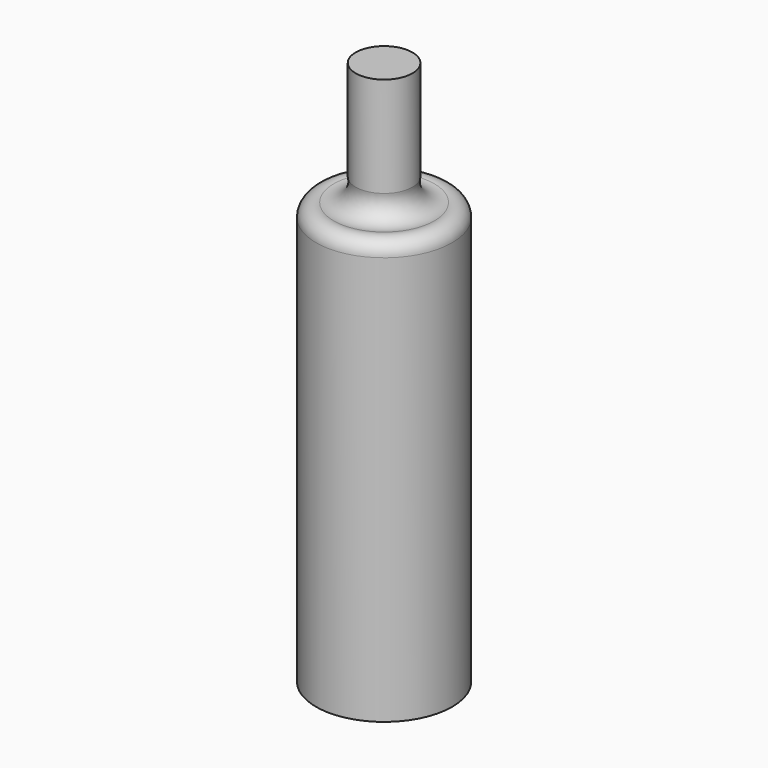
from build123d import *


with BuildPart() as f1:
    # F0 (on Front) → F1 (revolve)
    with BuildSketch(Plane.XZ):
        with BuildLine():
            Line((15.875, 48.028134), (0, 48.028134))
            Line((0, 48.028134), (0, -256.771866))
            Line((0, -256.771866), (38.1, -256.771866))
            Line((38.1, -256.771866), (38.1, -28.171866))
            ThreePointArc((38.1, -28.171866), (34.997068, -21.938017), (28.152796, -20.655442))
            ThreePointArc((28.152796, -20.655442), (18.54587, -17.70883), (15.875, -8.021622))
            Line((15.875, -8.021622), (15.875, 48.028134))
        make_face()
    revolve(axis=Axis((0, 0, -104.371866), (0, 0, -1)))


solid = f1.part
